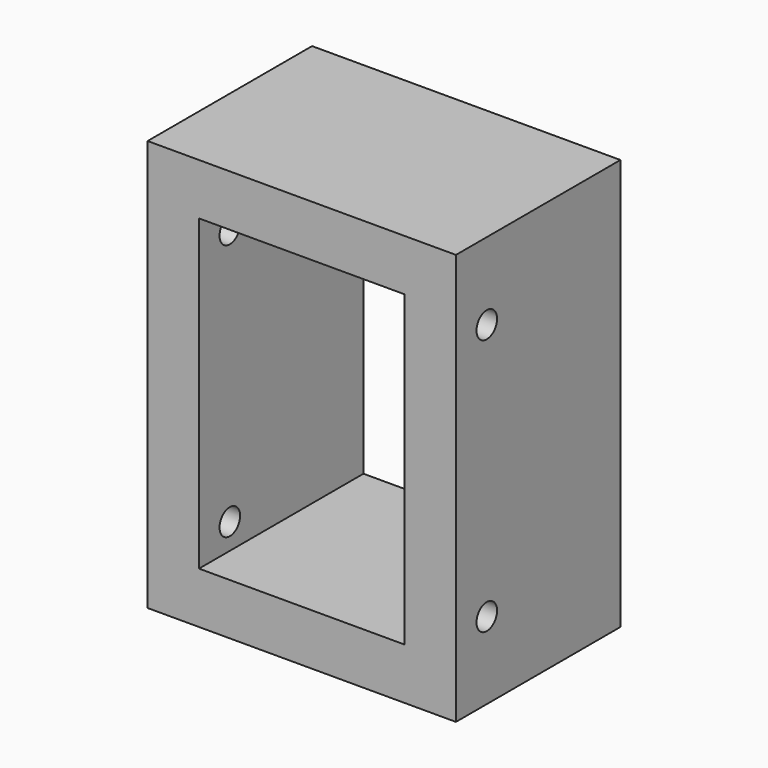
from build123d import *

# Parameters (mm, degrees)
F0_W     = 152.4
F0_H     = 203.2
F0_W_2   = 101.6
F0_H_2   = 152.4
F1_DEPTH = 101.6
F2_R     = 6.35
F3_DEPTH = 25.4
F4_R     = 6.35
F5_DEPTH = 25.4


with BuildPart() as f1:
    # F0 (on Front) → F1 (new body)
    with BuildSketch(Plane.XZ):
        Rectangle(F0_W, F0_H)
        Rectangle(F0_W_2, F0_H_2, mode=Mode.SUBTRACT)
    extrude(amount=F1_DEPTH)

    # F2 (on face) → F3 (cut)
    with BuildSketch(Plane(origin=(-76.2, 0, 0), x_dir=(0, -1, 0), z_dir=(-1, 0, 0))):
        with Locations((82.55, -63.5)):
            Circle(F2_R)
        with Locations((82.55, 63.5)):
            Circle(F2_R)
    extrude(amount=-F3_DEPTH, mode=Mode.SUBTRACT)

    # F4 (on face) → F5 (cut)
    with BuildSketch(Plane.YZ.offset(76.2)):
        with Locations((-82.55, 63.5)):
            Circle(F4_R)
        with Locations((-82.55, -63.5)):
            Circle(F4_R)
    extrude(amount=-F5_DEPTH, mode=Mode.SUBTRACT)


solid = f1.part
